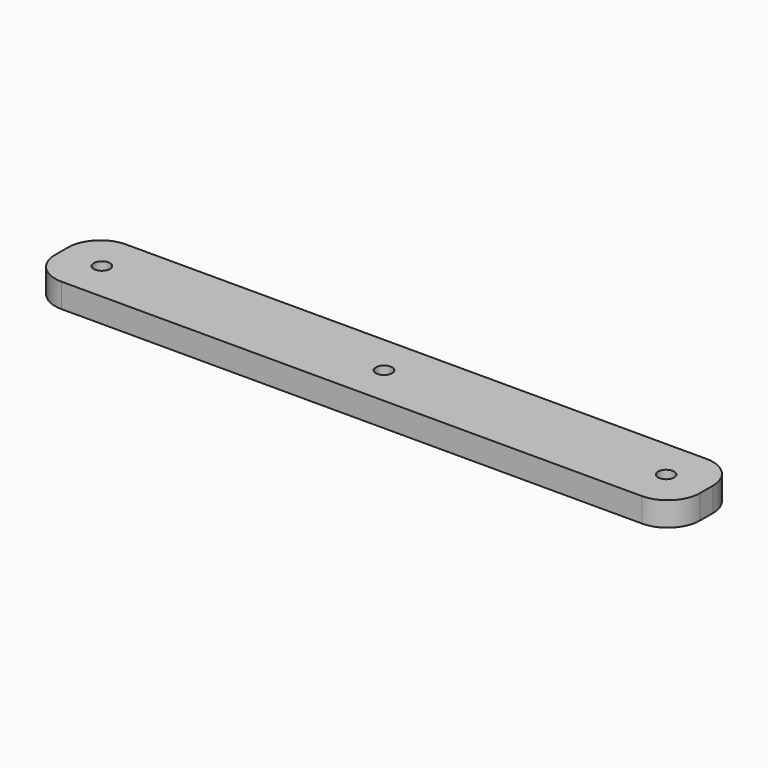
from build123d import *

# Parameters (mm, degrees)
F0_W     = 101.6
F0_H     = 12.7
F0_R     = 1.27
F1_DEPTH = 3.81
F2_R     = 5.08


with BuildPart() as f1:
    # F0 (on Top) → F1 (new body)
    with BuildSketch(Plane.XY):
        with Locations((-50.8, 6.35)):
            Rectangle(F0_W, F0_H)
        with Locations((-95.25, 6.35)):
            Circle(F0_R, mode=Mode.SUBTRACT)
        with Locations((-50.8, 6.35)):
            Circle(F0_R, mode=Mode.SUBTRACT)
        with Locations((-6.35, 6.35)):
            Circle(F0_R, mode=Mode.SUBTRACT)
    extrude(amount=F1_DEPTH)

    # F2
    f2_edges = [f1.edges().sort_by_distance(p)[0] for p in [
        (0, 0, 1.905),
        (0, 12.7, 1.905),
        (-101.6, 12.7, 1.905),
        (-101.6, 0, 1.905),
    ]]
    fillet(f2_edges, radius=F2_R)


solid = f1.part
